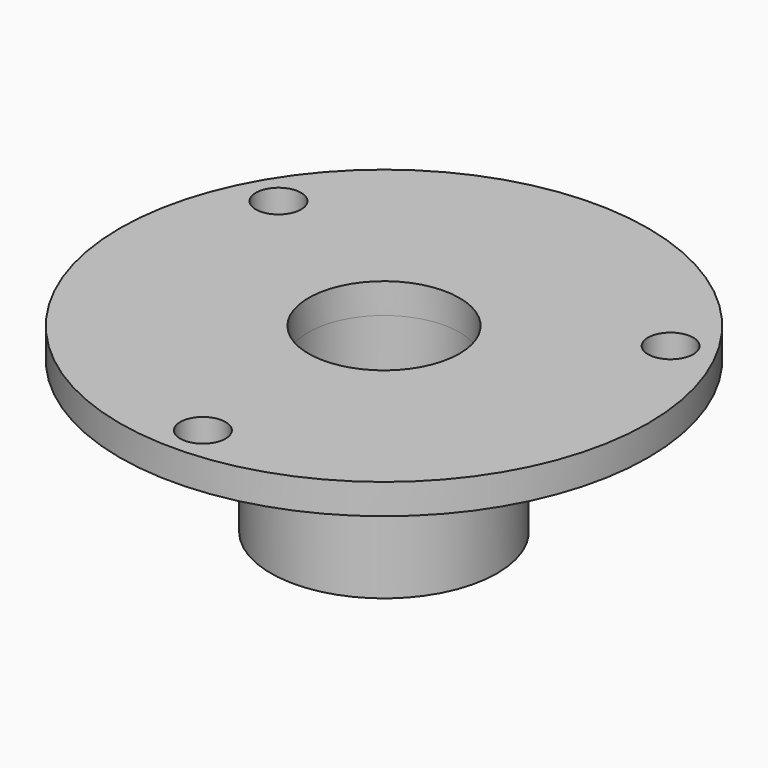
from build123d import *

# Parameters (mm, degrees)
F0_R     = 17.5
F0_R_2   = 5
F1_DEPTH = 2
F2_R     = 7.5
F2_R_2   = 5
F3_DEPTH = 10
F4_R     = 1.5
F5_DEPTH = 2


with BuildPart() as f1:
    # F0 (on Top) → F1 (new body)
    with BuildSketch(Plane.XY):
        Circle(F0_R)
        Circle(F0_R_2, mode=Mode.SUBTRACT)
    extrude(amount=-F1_DEPTH)

    # F2 (on face) → F3 (join)
    with BuildSketch(Plane(origin=(0, 0, -2), x_dir=(1, 0, 0), z_dir=(0, 0, -1))):
        Circle(F2_R)
        Circle(F2_R_2, mode=Mode.SUBTRACT)
    extrude(amount=F3_DEPTH)

    # F4 (on face) → F5 (cut, through all)
    with BuildSketch(Plane.XY):
        with Locations((-12.990381, 7.5)):
            Circle(F4_R)
        with Locations((12.990381, 7.5)):
            Circle(F4_R)
        with Locations((0, -15)):
            Circle(F4_R)
    extrude(amount=-F5_DEPTH, mode=Mode.SUBTRACT)


solid = f1.part
